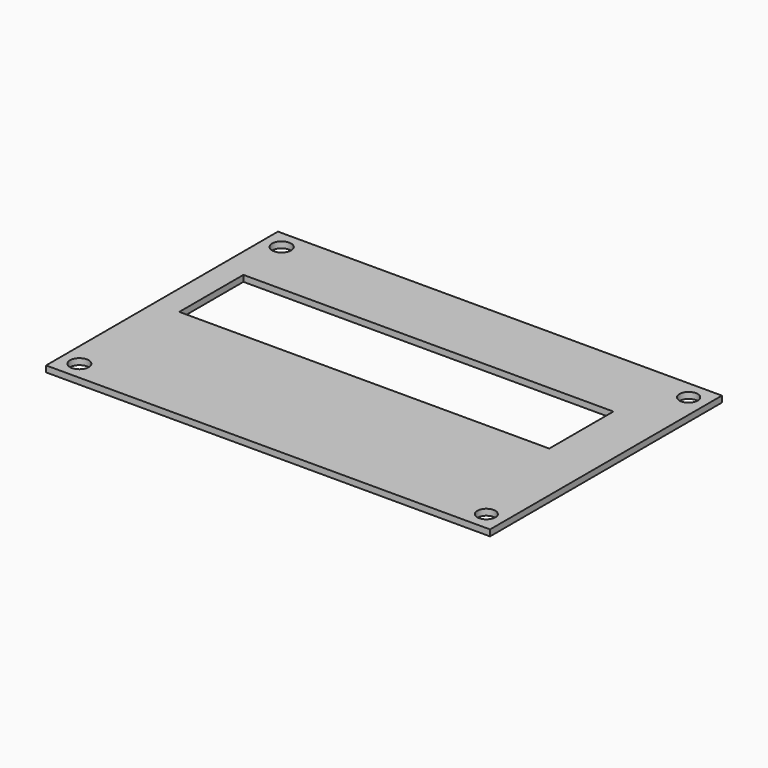
from build123d import *

# Parameters (mm, degrees)
SKETCH_W   = 72
SKETCH_H   = 47
SKETCH_R   = 1.52607
SKETCH_R_2 = 1.539027
SKETCH_R_3 = 1.475776
SKETCH_R_4 = 1.459822
SKETCH_W_2 = 60
SKETCH_H_2 = 13
PAD_DEPTH  = 1


with BuildPart() as part:
    # Sketch → Pad (new body)
    with BuildSketch(Plane.XY):
        Rectangle(SKETCH_W, SKETCH_H)
        with Locations((-33, -20.499426)):
            Circle(SKETCH_R, mode=Mode.SUBTRACT)
        with Locations((-33, 20.499357)):
            Circle(SKETCH_R_2, mode=Mode.SUBTRACT)
        with Locations((33, 20.499357)):
            Circle(SKETCH_R_3, mode=Mode.SUBTRACT)
        with Locations((33, -20.499426)):
            Circle(SKETCH_R_4, mode=Mode.SUBTRACT)
        with Locations((-2, 5)):
            Rectangle(SKETCH_W_2, SKETCH_H_2, mode=Mode.SUBTRACT)
    extrude(amount=PAD_DEPTH)


solid = part.part
